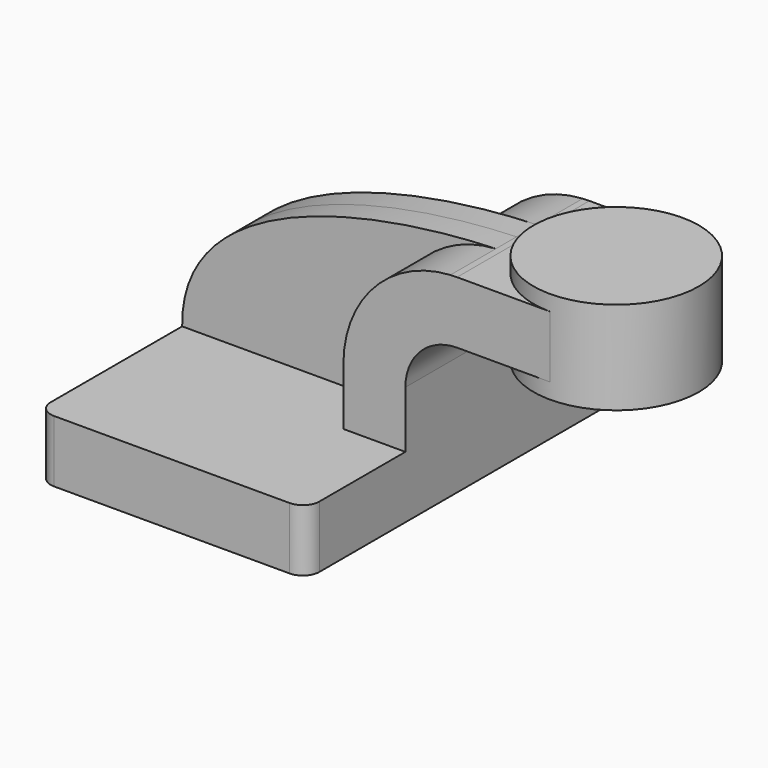
from build123d import *

# Parameters (mm, degrees)
F1_DEPTH = 63.5
F0_W     = 25.4
F0_H     = 19.05
F2_DEPTH = 25.4
F3_DEPTH = 7.9375
F5_R     = 5.08


with BuildPart() as f1:
    # F0 (on Front) → F1 (new body, symmetric)
    with BuildSketch(Plane.XZ):
        Polygon((41.275, -9.525), (41.275, 9.525), (22.225, 9.525), (-41.275, 9.525), (-41.275, -9.525), align=None)
    extrude(amount=F1_DEPTH, both=True)

    # F0 (on Front) → F2 (join, symmetric)
    with BuildSketch(Plane.XZ):
        with BuildLine():
            Line((22.225, 9.525), (41.275, 9.525))
            Line((41.275, 9.525), (41.275, 27.0002))
            ThreePointArc((41.275, 27.0002), (45.9246798487, 38.2255201513), (57.15, 42.8752))
            Line((57.15, 42.8752), (60.325, 42.8752))
            Line((60.325, 42.8752), (60.325, 61.9252))
            Line((60.325, 61.9252), (57.15, 61.9252))
            add(Edge.make_bspline(
                [(55.1065701704, 61.8653691453), (55.7928245706, 61.8885825156), (56.4740931421, 61.9085013809), (57.15, 61.9252)],
                knots=[109.6237509197, 109.6237509197, 109.6237509197, 109.6237509197, 111.5045361635, 111.5045361635, 111.5045361635, 111.5045361635], degree=3))
            ThreePointArc((55.1065701704, 61.8653691453), (31.7421034735, 50.9625542062), (22.225, 27.0002))
            Line((22.225, 27.0002), (22.225, 9.525))
        make_face()
        with Locations((73.025, 52.4002)):
            Rectangle(F0_W, F0_H)
        with Locations((73.025, 52.4002)):
            Rectangle(F0_W, F0_H)
    extrude(amount=F2_DEPTH, both=True)

    # F0 (on Front) → F3 (join, symmetric)
    with BuildSketch(Plane.XZ):
        with BuildLine():
            Line((-41.275, 9.525), (22.225, 9.525))
            Line((22.225, 9.525), (22.225, 27.0002))
            ThreePointArc((22.225, 27.0002), (31.7421034735, 50.9625542062), (55.1065701704, 61.8653691453))
            add(Edge.make_bspline(
                [(-41.275, 9.525), (-41.8299371409, 47.9669883241), (15.1074359349, 60.5123509154), (55.1065701704, 61.8653691453)],
                knots=[0, 0, 0, 0, 109.6237509197, 109.6237509197, 109.6237509197, 109.6237509197], degree=3))
        make_face()
    extrude(amount=F3_DEPTH, both=True)

    # F0 (on Front) → F4 (revolve)
    with BuildSketch(Plane.XZ):
        Polygon((85.725, 61.9252), (85.725, 42.8752), (85.725, 38.1), (111.125, 38.1), (111.125, 66.675), (85.725, 66.675), align=None)
    revolve(axis=Axis((85.725, 0, 52.3875), (0, 0, 1)))

    # F5
    f5_edges = [f1.edges().sort_by_distance(p)[0] for p in [
        (41.275, -63.5, 0),
        (-41.275, -63.5, 0),
        (-41.275, 63.5, 0),
        (41.275, 63.5, 0),
    ]]
    fillet(f5_edges, radius=F5_R)


solid = f1.part
